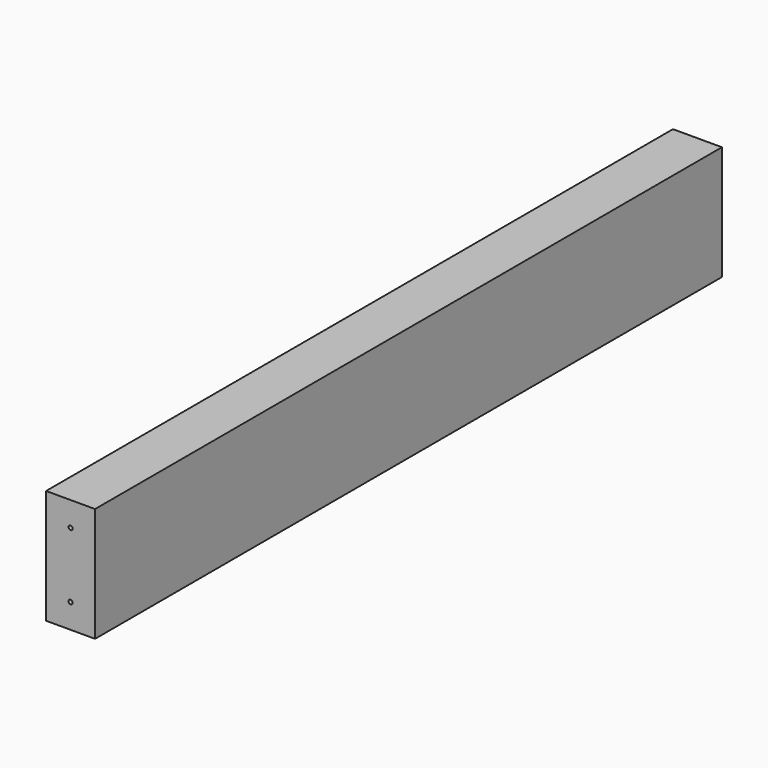
from build123d import *

# Parameters (mm, degrees)
F0_W     = 609.6
F0_H     = 88.9
F1_DEPTH = 38.1
F2_R     = 1.5875
F3_DEPTH = 609.601


with BuildPart() as f1:
    # F0 (on Right) → F1 (new body)
    with BuildSketch(Plane.YZ):
        with Locations((304.8, -44.45)):
            Rectangle(F0_W, F0_H)
    extrude(amount=-F1_DEPTH)

    # F2 (on Front) → F3 (cut, through all)
    with BuildSketch(Plane.XZ):
        with Locations((-19.05, -19.05)):
            Circle(F2_R)
        with Locations((-19.05, -69.85)):
            Circle(F2_R)
    extrude(amount=-F3_DEPTH, mode=Mode.SUBTRACT)


solid = f1.part
